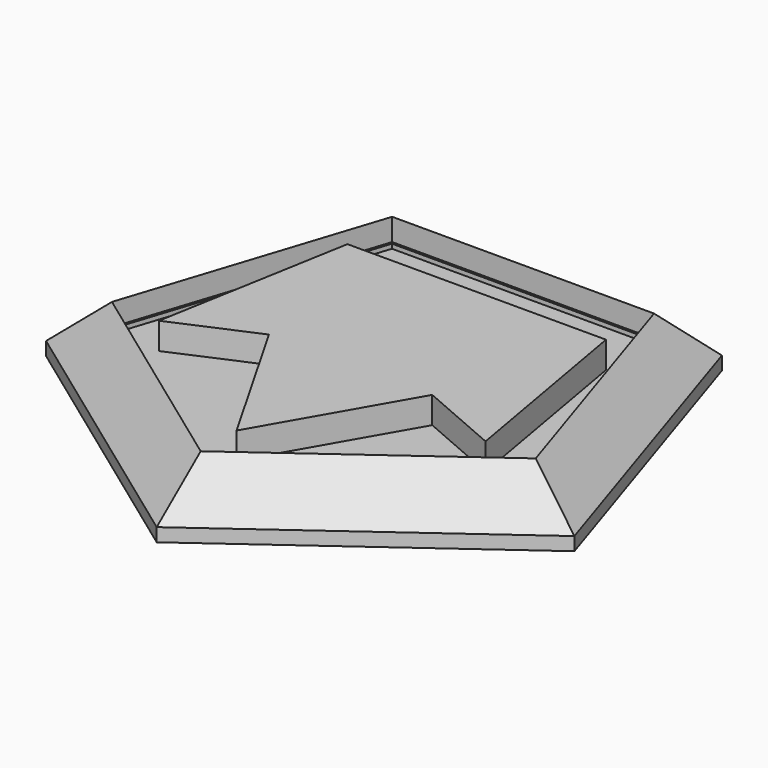
from build123d import *

# Parameters (mm, degrees)
F1_DEPTH = 3.302
F3_DEPTH = 1.524
F4_SIZE  = 2.54
F5_DEPTH = 1.27


with BuildPart() as f1:
    # F0 (on Top) → F1 (new body)
    with BuildSketch(Plane.XY):
        Polygon((9.3258451213, 12.835924618), (-9.3258451213, 12.835924618), (-15.08953438, -4.9028869271), (0, -15.866075382), (15.08953438, -4.9028869271), align=None)
    extrude(amount=F1_DEPTH)

    # F2 (on face) → F3 (cut)
    with BuildSketch(Plane.XY.offset(3.302)):
        Polygon((7.3849782182, 10.1645505026), (-7.3849782182, 10.1645505026), (-11.9491457632, -3.8825128116), (0, -12.564075382), (11.9491457632, -3.8825128116), align=None)
        Polygon((-9.3258451213, -4.0431052044), (-7.3849782182, 6.9842811825), (0, 6.9842811825), (7.3849782182, 6.9842811825), (9.3258451213, -4.0431052044), (4.6629225606, -2.0215526022), (0, -10.1645505026), (-4.6629225606, -2.0215526022), align=None, mode=Mode.SUBTRACT)
    extrude(amount=-F3_DEPTH, mode=Mode.SUBTRACT)

    # F4
    f4_edges = [f1.edges().sort_by_distance(p)[0] for p in [
        (7.544767, -10.384481, 3.302),
        (-7.544767, -10.384481, 3.302),
        (-12.20769, 3.966519, 3.302),
        (0, 12.835925, 3.302),
        (12.20769, 3.966519, 3.302),
    ]]
    chamfer(f4_edges, length=F4_SIZE)

    # F5 (cut): a face of the model
    f5_faces = [f1.faces().sort_by_distance(p)[0] for p in [
        (6.0321565972, -8.3025512818, 3.302),
    ]]
    extrude(f5_faces, amount=-F5_DEPTH, mode=Mode.SUBTRACT)


solid = f1.part
